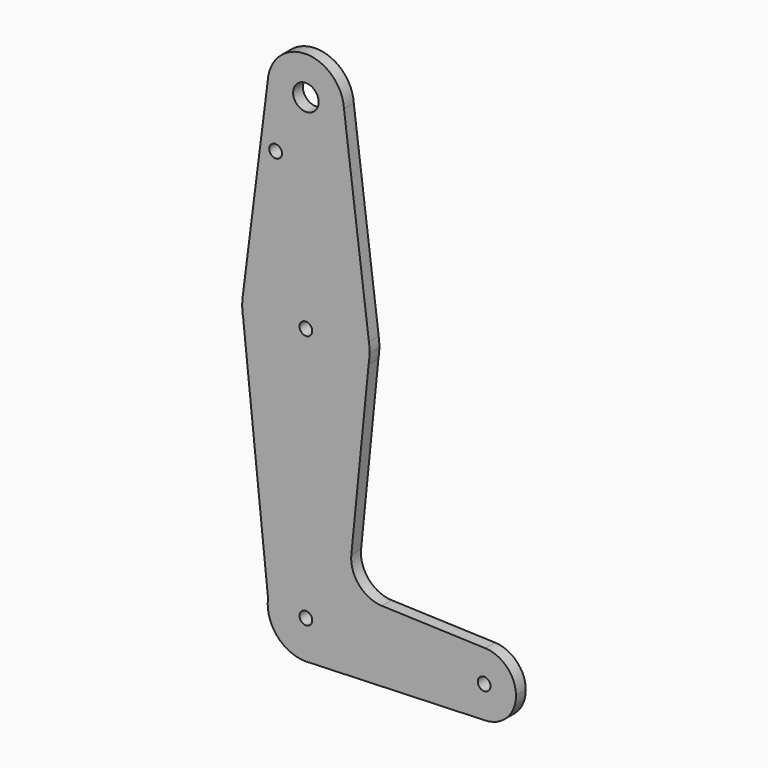
from build123d import *

# Parameters (mm, degrees)
F0_R     = 3.175
F0_R_2   = 1.5875
F1_DEPTH = 3.048


with BuildPart() as f1:
    # F0 (on Front) → F1 (new body)
    with BuildSketch(Plane.XZ):
        with BuildLine():
            ThreePointArc((-9.509853, 84.020374), (-0.26858, 73.962214), (9.525, 83.483426))
            ThreePointArc((9.525, 83.483426), (9.521213, 83.752007), (9.509853, 84.020374))
            ThreePointArc((9.509853, 84.020374), (0, 93.008426), (-9.509853, 84.020374))
        make_face()
        with Locations((0, 83.483426)):
            Circle(F0_R, mode=Mode.SUBTRACT)
        with BuildLine():
            ThreePointArc((9.509853, 84.020374), (9.521213, 83.752007), (9.525, 83.483426))
            ThreePointArc((9.525, 83.483426), (-0.26858, 73.962214), (-9.509853, 84.020374))
            Line((-9.509853, 84.020374), (-15.717492, 34.914137))
            ThreePointArc((-15.717492, 34.914137), (0, 48.558426), (15.717492, 34.914137))
            Line((15.717492, 34.914137), (9.509853, 84.020374))
        make_face()
        with Locations((-7.552145, 69.208626)):
            Circle(F0_R_2, mode=Mode.SUBTRACT)
        with BuildLine():
            ThreePointArc((15.875, 32.683426), (15.835574, 33.801559), (15.717492, 34.914137))
            ThreePointArc((15.717492, 34.914137), (0, 48.558426), (-15.717492, 34.914137))
            ThreePointArc((-15.717492, 34.914137), (-15.849716, 33.579046), (-15.868737, 32.237557))
            Line((-15.868737, 32.237557), (-15.620022, 29.849606))
            ThreePointArc((-15.620022, 29.849606), (0.067524, 16.80857), (15.643564, 29.982586))
            Line((15.643564, 29.982586), (15.868737, 32.237557))
            ThreePointArc((15.868737, 32.237557), (15.873434, 32.46047), (15.875, 32.683426))
        make_face()
        with Locations((0, 32.683426)):
            Circle(F0_R_2, mode=Mode.SUBTRACT)
        with BuildLine():
            Line((-15.620022, 29.849606), (-15.868737, 32.237557))
            ThreePointArc((-15.868737, 32.237557), (-15.789587, 31.038873), (-15.620022, 29.849606))
        make_face()
        with BuildLine():
            ThreePointArc((15.643564, 29.982586), (15.79644, 31.106049), (15.868737, 32.237557))
            Line((15.868737, 32.237557), (15.643564, 29.982586))
        make_face()
        with BuildLine():
            ThreePointArc((15.643564, 29.982586), (0.067524, 16.80857), (-15.620022, 29.849606))
            Line((-15.620022, 29.849606), (-9.436388, -29.520343))
            ThreePointArc((-9.436388, -29.520343), (0.649628, -21.313753), (9.525, -30.816574))
            ThreePointArc((9.525, -30.816574), (6.970557, -37.307873), (0.677344, -40.317459))
            Line((0.677344, -40.317459), (44.732405, -38.749048))
            ThreePointArc((44.732405, -38.749048), (36.5125, -30.816574), (44.732405, -22.884099))
            Line((44.732405, -22.884099), (18.956372, -21.966442))
            ThreePointArc((18.956372, -21.966442), (13.250924, -19.250604), (11.328373, -13.231325))
            Line((11.328373, -13.231325), (15.643564, 29.982586))
        make_face()
        with BuildLine():
            ThreePointArc((9.525, -30.816574), (0.649628, -21.313753), (-9.436388, -29.520343))
            ThreePointArc((-9.436388, -29.520343), (-7.178866, -37.076726), (0, -40.341574))
            Line((0, -40.341574), (0.677344, -40.317459))
            ThreePointArc((0.677344, -40.317459), (6.970557, -37.307873), (9.525, -30.816574))
        make_face()
        with Locations((0, -30.816574)):
            Circle(F0_R_2, mode=Mode.SUBTRACT)
        with BuildLine():
            Line((0.677344, -40.317459), (0, -40.341574))
            ThreePointArc((0, -40.341574), (0.338886, -40.335543), (0.677344, -40.317459))
        make_face()
        with BuildLine():
            ThreePointArc((52.3875, -30.816574), (50.161633, -25.304663), (44.732405, -22.884099))
            ThreePointArc((44.732405, -22.884099), (36.5125, -30.816574), (44.732405, -38.749048))
            ThreePointArc((44.732405, -38.749048), (50.161633, -36.328484), (52.3875, -30.816574))
        make_face()
        with Locations((44.45, -30.816574)):
            Circle(F0_R_2, mode=Mode.SUBTRACT)
    extrude(amount=F1_DEPTH)


solid = f1.part
